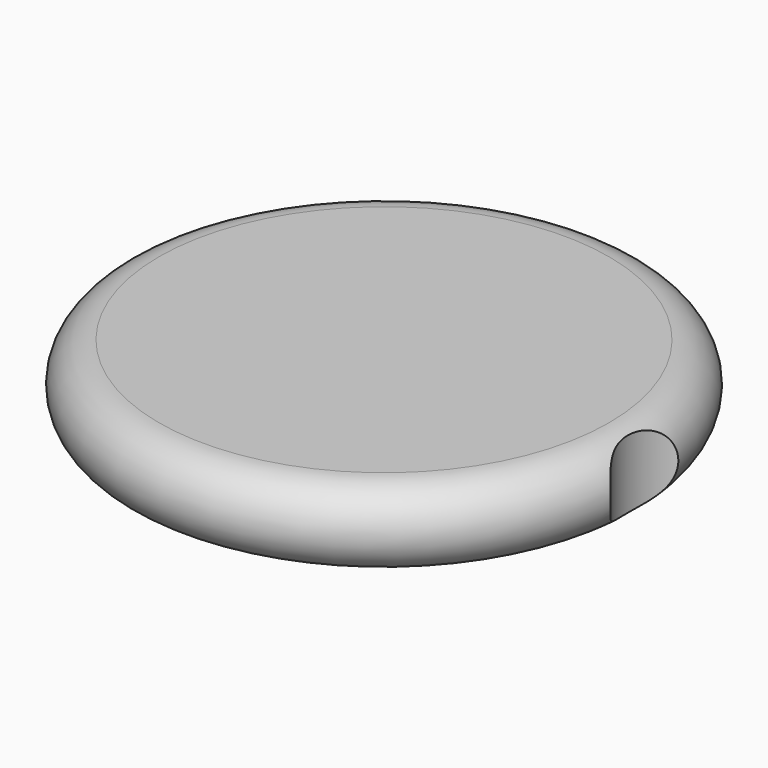
from build123d import *

# Parameters (mm, degrees)
F2_R     = 7.206667
F3_DEPTH = 12.7


with BuildPart() as f1:
    # F0 (on Front) → F1 (revolve)
    with BuildSketch(Plane.XZ):
        with BuildLine():
            ThreePointArc((-26.159342, -4.529625), (-22.956414, -3.202928), (-21.629718, 0))
            ThreePointArc((-21.629718, 0), (-22.956414, 3.202928), (-26.159342, 4.529625))
            Line((-26.159342, 4.529625), (-26.159342, -4.529625))
        make_face()
        with BuildLine():
            Line((-26.159342, -4.529625), (-26.159342, 4.529625))
            ThreePointArc((-26.159342, 4.529625), (-30.688967, 0), (-26.159342, -4.529625))
        make_face()
        with BuildLine():
            ThreePointArc((-26.159342, 4.529625), (-22.956414, 3.202928), (-21.629718, 0))
            ThreePointArc((-21.629718, 0), (-22.956414, -3.202928), (-26.159342, -4.529625))
            Line((-26.159342, -4.529625), (0, -4.529625))
            Line((0, -4.529625), (0, 4.529625))
            Line((0, 4.529625), (-26.159342, 4.529625))
        make_face()
    revolve(axis=Axis((0, 0, 0), (0, 0, -1)))

    # F2 (on Top) → F3 (cut, symmetric)
    with BuildSketch(Plane.XY):
        with Locations((35.55673, 0)):
            Circle(F2_R)
    extrude(amount=F3_DEPTH, both=True, mode=Mode.SUBTRACT)


solid = f1.part
